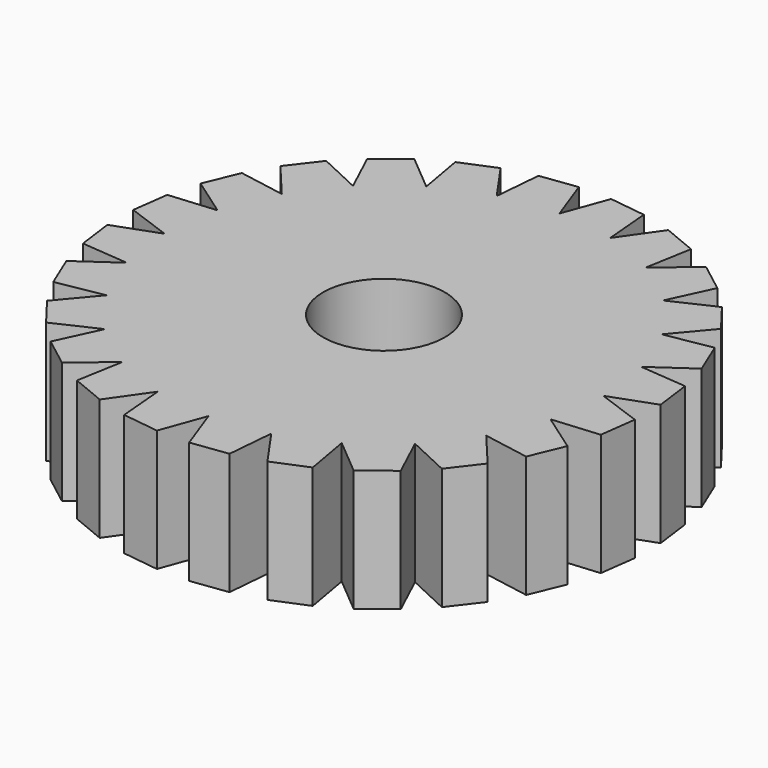
from build123d import *

# Parameters (mm, degrees)
F2_DEPTH = 3.175
F3_D     = 3.175


with BuildPart() as f2:
    # F1 (on Top) → F2 (new body)
    with BuildSketch(Plane.XY):
        Polygon((0.420582, 6.870539), (0, 5.715), (-0.420582, 6.870539), (-1.371976, 6.745286), (-1.479151, 5.520266), (-2.184477, 6.527577), (-3.071035, 6.160352), (-2.8575, 4.949335), (-3.799504, 5.73977), (-4.560808, 5.155601), (-4.041115, 4.041115), (-5.155601, 4.560808), (-5.73977, 3.799504), (-4.949335, 2.8575), (-6.160352, 3.071035), (-6.527577, 2.184477), (-5.520266, 1.479151), (-6.745286, 1.371976), (-6.870539, 0.420582), (-5.715, 0), (-6.870539, -0.420582), (-6.745286, -1.371976), (-5.520266, -1.479151), (-6.527577, -2.184477), (-6.160352, -3.071035), (-4.949335, -2.8575), (-5.73977, -3.799504), (-5.155601, -4.560808), (-4.041115, -4.041115), (-4.560808, -5.155601), (-3.799504, -5.73977), (-2.8575, -4.949335), (-3.071035, -6.160352), (-2.184477, -6.527577), (-1.479151, -5.520266), (-1.371976, -6.745286), (-0.420582, -6.870539), (0, -5.715), (0.420582, -6.870539), (1.371976, -6.745286), (1.479151, -5.520266), (2.184477, -6.527577), (3.071035, -6.160352), (2.8575, -4.949335), (3.799504, -5.73977), (4.560808, -5.155601), (4.041115, -4.041115), (5.155601, -4.560808), (5.73977, -3.799504), (4.949335, -2.8575), (6.160352, -3.071035), (6.527577, -2.184477), (5.520266, -1.479151), (6.745286, -1.371976), (6.870539, -0.420582), (5.715, 0), (6.870539, 0.420582), (6.745286, 1.371976), (5.520266, 1.479151), (6.527577, 2.184477), (6.160352, 3.071035), (4.949335, 2.8575), (5.73977, 3.799504), (5.155601, 4.560808), (4.041115, 4.041115), (4.560808, 5.155601), (3.799504, 5.73977), (2.8575, 4.949335), (3.071035, 6.160352), (2.184477, 6.527577), (1.479151, 5.520266), (1.371976, 6.745286), align=None)
    extrude(amount=F2_DEPTH)

    # F3 (through all)
    with Locations(Plane(origin=(0, 0, 0), x_dir=(1, 0, 0), z_dir=(0, 0, -1))):
        with Locations((0, 0)):
            Hole(F3_D / 2)


solid = f2.part
